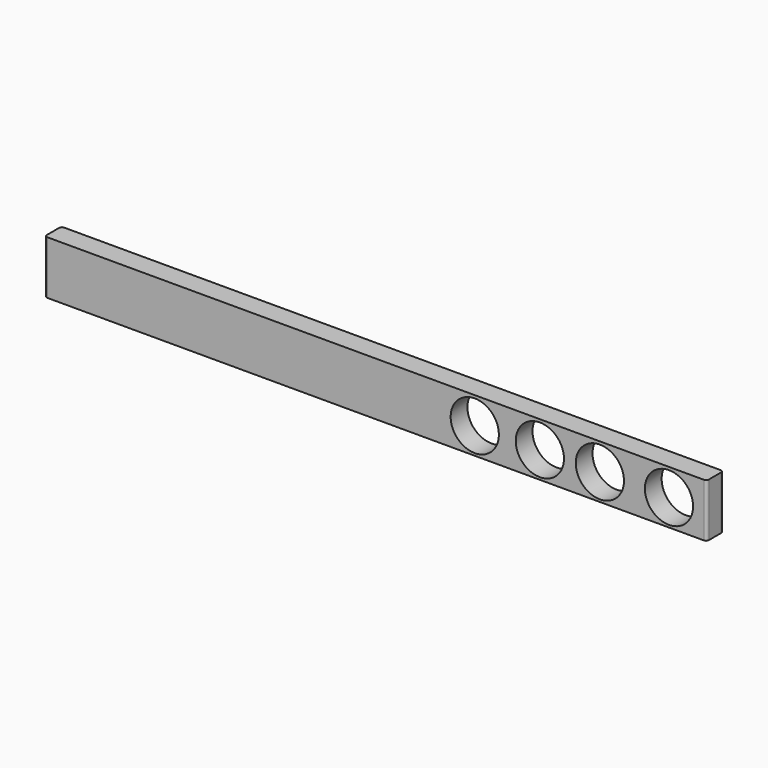
from build123d import *

# Parameters (mm, degrees)
F0_W     = 120.43124
F0_H     = 9.712197
F1_DEPTH = 3.81
F2_R     = 4.385573
F3_DEPTH = 38.1
F4_R     = 0.508


with BuildPart() as f1:
    # F0 (on Front) → F1 (new body)
    with BuildSketch(Plane.XZ):
        with Locations((0.832474, -4.856098)):
            Rectangle(F0_W, F0_H)
    extrude(amount=F1_DEPTH)

    # F2 (on face) → F3 (cut)
    with BuildSketch(Plane.XZ.offset(3.81)):
        with Locations((18.869411, -4.902347)):
            Circle(F2_R)
        with Locations((30.709038, -4.902347)):
            Circle(F2_R)
        with Locations((41.6237, -4.902347)):
            Circle(F2_R)
        with Locations((54.203305, -4.902347)):
            Circle(F2_R)
    extrude(amount=-F3_DEPTH, mode=Mode.SUBTRACT)

    # F4
    f4_edges = [f1.edges().sort_by_distance(p)[0] for p in [
        (-59.383146, -3.81, -4.856098),
        (-59.383146, 0, -4.856098),
        (61.048094, 0, -4.856098),
        (61.048094, -3.81, -4.856098),
    ]]
    fillet(f4_edges, radius=F4_R)


solid = f1.part
